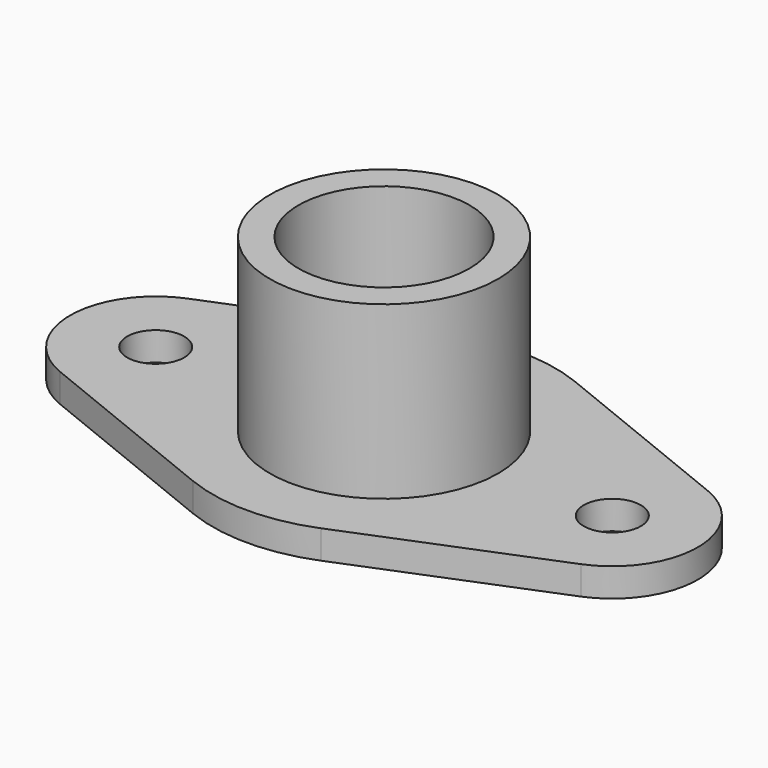
from build123d import *

# Parameters (mm, degrees)
F1_DEPTH = 12.7
F2_R     = 12.7
F3_DEPTH = 12.7
F4_R     = 12.7
F5_DEPTH = 25.4
F6_R     = 50.8
F7_DEPTH = 76.2
F8_R     = 38.1
F9_DEPTH = 88.9


with BuildPart() as f1:
    # F0 (on Top) → F1 (new body)
    with BuildSketch(Plane.XY):
        with BuildLine():
            Line((-115.8875, -35.319645), (-28.575, -70.639291))
            ThreePointArc((-28.575, -70.639291), (0, -76.2), (28.575, -70.639291))
            Line((28.575, -70.639291), (115.8875, -35.319645))
            ThreePointArc((115.8875, -35.319645), (139.7, 0), (115.8875, 35.319645))
            Line((115.8875, 35.319645), (28.575, 70.639291))
            ThreePointArc((28.575, 70.639291), (0, 76.2), (-28.575, 70.639291))
            Line((-28.575, 70.639291), (-115.8875, 35.319645))
            ThreePointArc((-115.8875, 35.319645), (-139.7, 0), (-115.8875, -35.319645))
        make_face()
    extrude(amount=F1_DEPTH)

    # F2 (on face) → F3 (cut, through all)
    with BuildSketch(Plane.XY.offset(12.7)):
        with Locations((-101.6, 0)):
            Circle(F2_R)
    extrude(amount=-F3_DEPTH, mode=Mode.SUBTRACT)

    # F4 (on face) → F5 (cut)
    with BuildSketch(Plane.XY.offset(12.7)):
        with Locations((101.6, 0)):
            Circle(F4_R)
    extrude(amount=-F5_DEPTH, mode=Mode.SUBTRACT)

    # F6 (on face) → F7 (join)
    with BuildSketch(Plane.XY.offset(12.7)):
        Circle(F6_R)
    extrude(amount=F7_DEPTH)

    # F8 (on face) → F9 (cut, through all)
    with BuildSketch(Plane.XY.offset(88.9)):
        Circle(F8_R)
    extrude(amount=-F9_DEPTH, mode=Mode.SUBTRACT)


solid = f1.part
